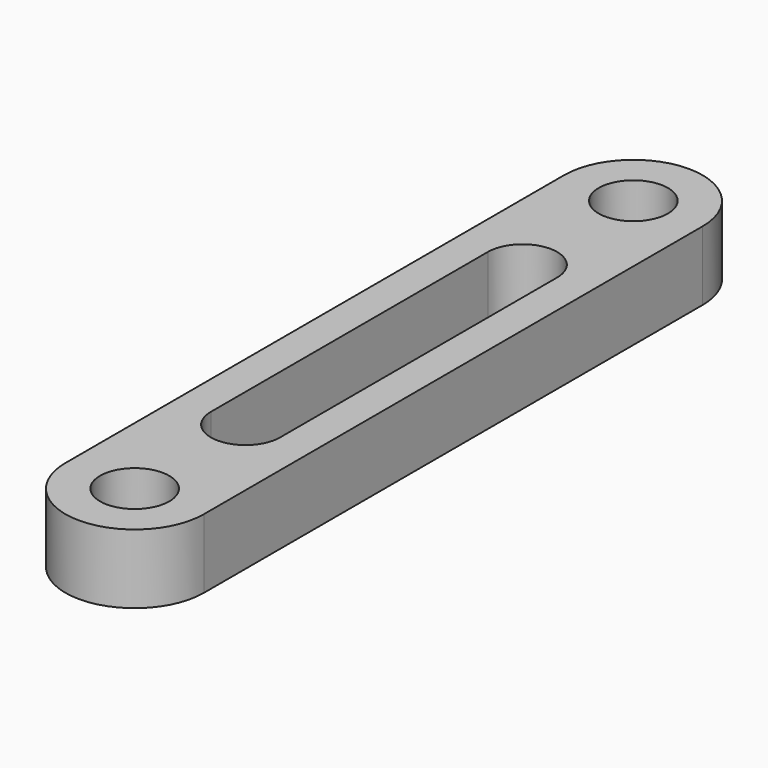
from build123d import *

# Parameters (mm, degrees)
F1_DEPTH = 10
F3_D     = 10


with BuildPart() as f1:
    # F0 (on Top) → F1 (new body)
    with BuildSketch(Plane.XY):
        with BuildLine():
            Line((10, -90), (10, 0))
            ThreePointArc((10, 0), (0, 10), (-10, 0))
            Line((-10, 0), (-10, -90))
            ThreePointArc((-10, -90), (0, -100), (10, -90))
        make_face()
        with BuildLine():
            ThreePointArc((-5, -20), (0, -15), (5, -20))
            Line((5, -20), (5, -70))
            ThreePointArc((5, -70), (0, -75), (-5, -70))
            Line((-5, -70), (-5, -20))
        make_face(mode=Mode.SUBTRACT)
    extrude(amount=F1_DEPTH)

    # F3 (through all)
    with Locations(Plane.XY.offset(10)):
        with Locations((0, 0), (0, -90)):
            Hole(F3_D / 2)


solid = f1.part
